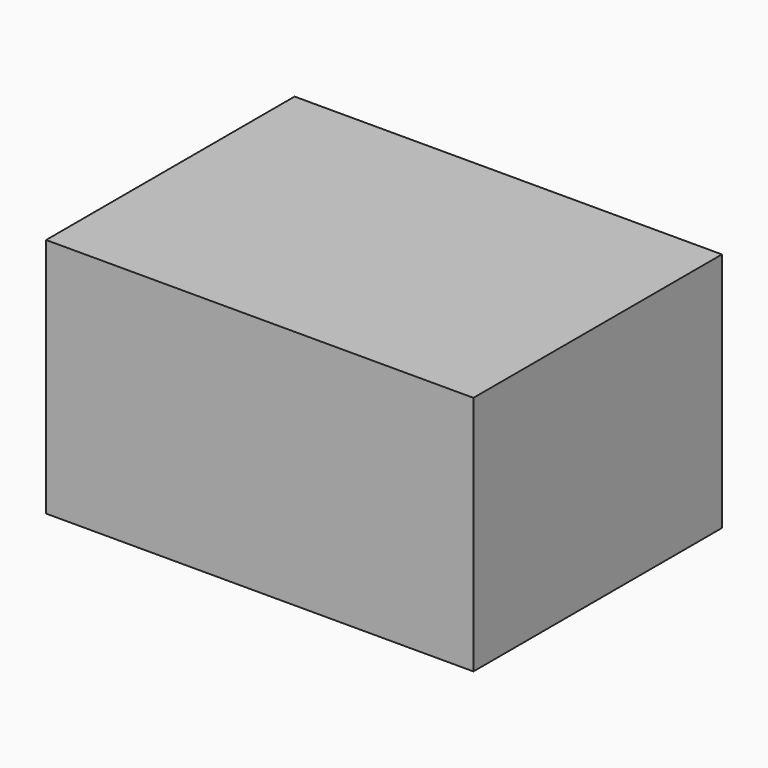
from build123d import *

# Parameters (mm, degrees)
F0_W     = 103.2472290099
F0_H     = 55.9805966914
F1_DEPTH = 76.2
F2_T     = 2.54


with BuildPart() as f1:
    # F0 (on Front) → F1 (new body)
    with BuildSketch(Plane.XZ):
        with Locations((-9.5061380416, 12.0147038251)):
            Rectangle(F0_W, F0_H)
    extrude(amount=F1_DEPTH)

    # F2
    f2_openings = [f1.faces().sort_by_distance(p)[0] for p in [
        (-9.506138, 0, 12.014704),
    ]]
    offset(amount=F2_T, openings=f2_openings, kind=Kind.INTERSECTION)


solid = f1.part
